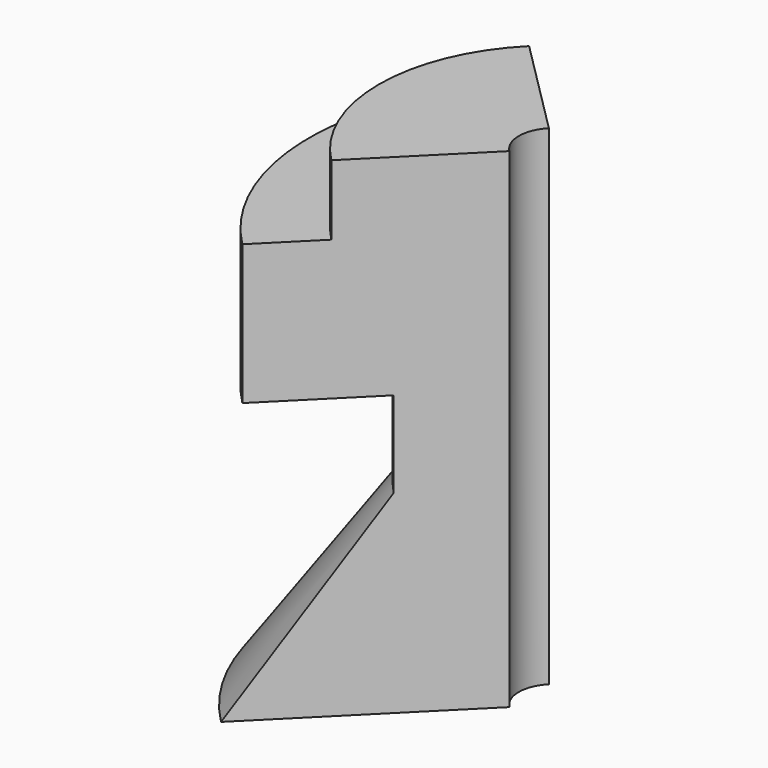
from build123d import *

# Parameters (mm, degrees)
F1_ANGLE = 90
F3_DEPTH = 70.001


with BuildPart() as f1:
    # F0 (on Front) → F1 (revolve, symmetric)
    with BuildSketch(Plane.XZ) as f1_sk:
        Polygon((0, -30), (0, 0), (0, 40), (-25, 40), (-25, 30), (-35, 30), (-35, 10), (-18, 10), (-18, -2.302446), (-37.394036, -30), align=None)
    revolve(axis=Axis((0, 0, 20), (0, 0, 1)), revolution_arc=F1_ANGLE / 2)
    revolve(f1_sk.sketch, axis=Axis((0, 0, 20), (0, 0, -1)), revolution_arc=F1_ANGLE / 2)

    # F2 (on face) → F3 (cut, through all)
    with BuildSketch(Plane.XY.offset(40)):
        with BuildLine():
            Line((0, 0), (-3.535534, 3.535534))
            ThreePointArc((-3.535534, 3.535534), (-5, 0), (-3.535534, -3.535534))
            Line((-3.535534, -3.535534), (0, 0))
        make_face()
    extrude(amount=-F3_DEPTH, mode=Mode.SUBTRACT)


solid = f1.part
